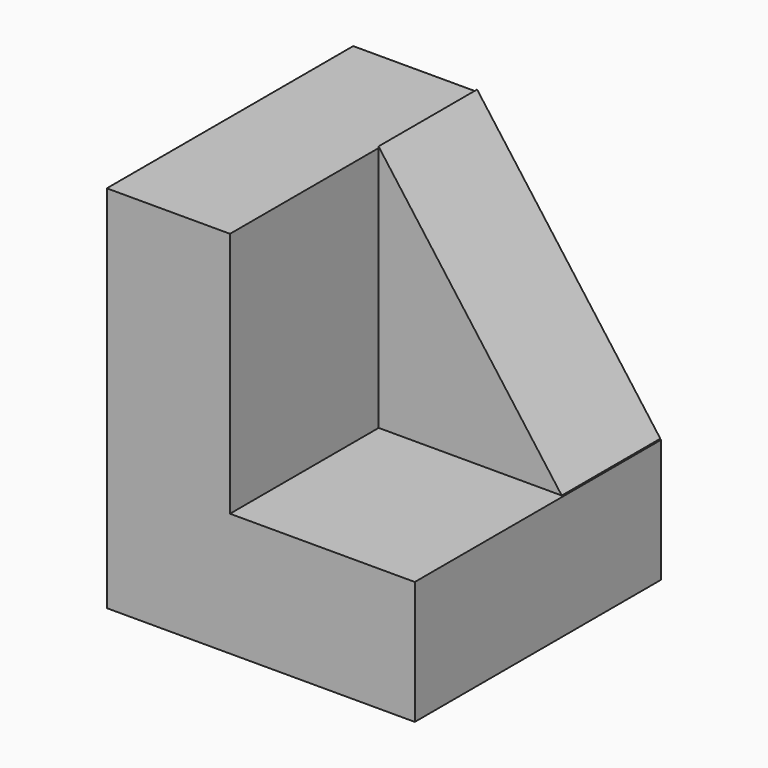
from build123d import *

# Parameters (mm, degrees)
F1_DEPTH = 50
F3_DEPTH = 20


with BuildPart() as f1:
    # F0 (on Front) → F1 (new body)
    with BuildSketch(Plane.XZ):
        Polygon((0, 60), (0, 0), (50, 0), (50, 20), (20, 20), (20, 60), align=None)
    extrude(amount=F1_DEPTH)


with BuildPart() as f3:
    # F2 (on Front) → F3 (new body)
    with BuildSketch(Plane.XZ):
        Polygon((49.856119, 20.11241), (20.112412, 60.337234), (20.112412, 20.11241), align=None)
    extrude(amount=F3_DEPTH)


solid = Compound([f1.part, f3.part])
